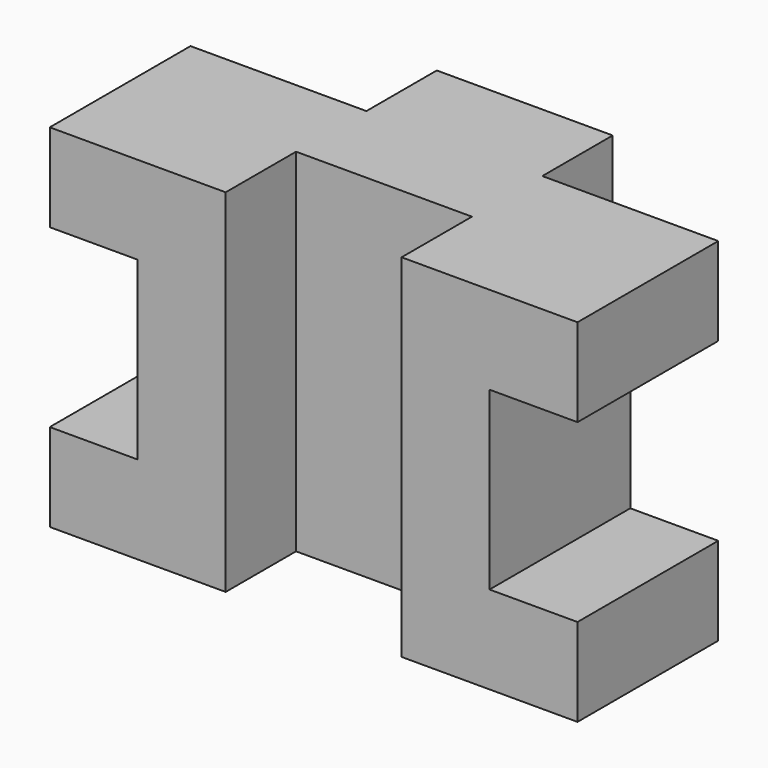
from build123d import *

# Parameters (mm, degrees)
F1_DEPTH = 40
F2_W     = 10
F2_H     = 20
F3_DEPTH = 30.001
F4_W     = 10
F4_H     = 20
F5_DEPTH = 30.001


with BuildPart() as f1:
    # F0 (on Top) → F1 (new body)
    with BuildSketch(Plane.XY):
        Polygon((-33.55762, 38.633292), (-53.55762, 38.633292), (-53.55762, 18.633292), (-33.55762, 18.633292), (-33.55762, 28.633292), (-13.55762, 28.633292), (-13.55762, 18.633292), (6.44238, 18.633292), (6.44238, 38.633292), (-13.55762, 38.633292), (-13.55762, 48.633292), (-33.55762, 48.633292), align=None)
    extrude(amount=F1_DEPTH)

    # F2 (on face) → F3 (cut, through all)
    with BuildSketch(Plane.XZ.offset(-18.633292)):
        with Locations((-48.55762, 20)):
            Rectangle(F2_W, F2_H)
    extrude(amount=-F3_DEPTH, mode=Mode.SUBTRACT)

    # F4 (on face) → F5 (cut, through all)
    with BuildSketch(Plane.XZ.offset(-18.633292)):
        with Locations((1.44238, 20)):
            Rectangle(F4_W, F4_H)
    extrude(amount=-F5_DEPTH, mode=Mode.SUBTRACT)


solid = f1.part
